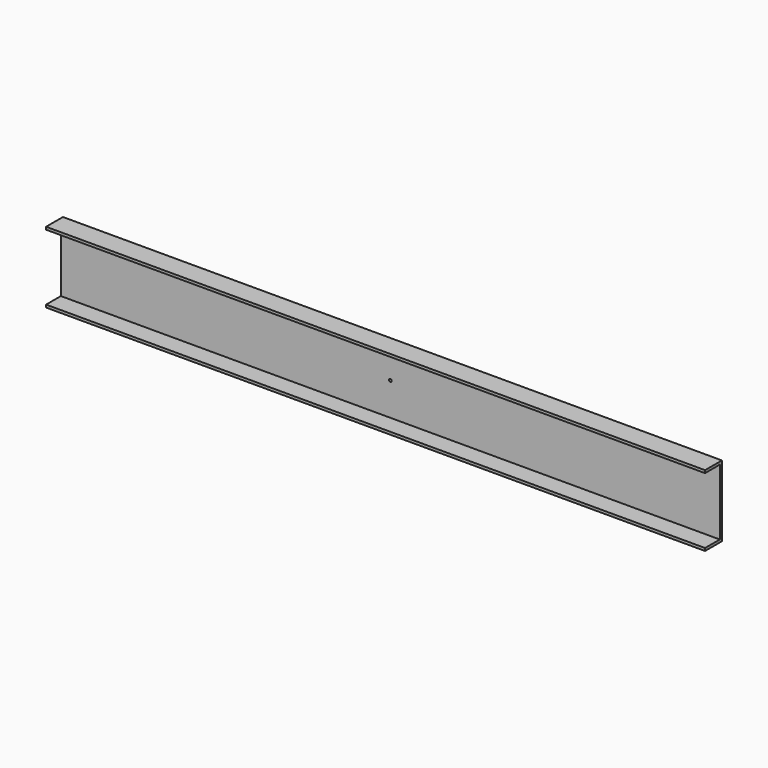
from build123d import *

# Parameters (mm, degrees)
F0_W     = 250
F0_H     = 27
F0_R     = 0.5
F1_DEPTH = 1
F2_W     = 250
F2_H     = 1
F3_DEPTH = 7


with BuildPart() as f1:
    # F0 (on Front) → F1 (new body)
    with BuildSketch(Plane.XZ):
        with Locations((125, 13.5)):
            Rectangle(F0_W, F0_H)
        with Locations((125, 13.5)):
            Circle(F0_R, mode=Mode.SUBTRACT)
    extrude(amount=F1_DEPTH)

    # F2 (on face) → F3 (join)
    with BuildSketch(Plane.XZ.offset(1)):
        with Locations((125, 26.5)):
            Rectangle(F2_W, F2_H)
        with Locations((125, 0.5)):
            Rectangle(F2_W, F2_H)
    extrude(amount=F3_DEPTH)


solid = f1.part
